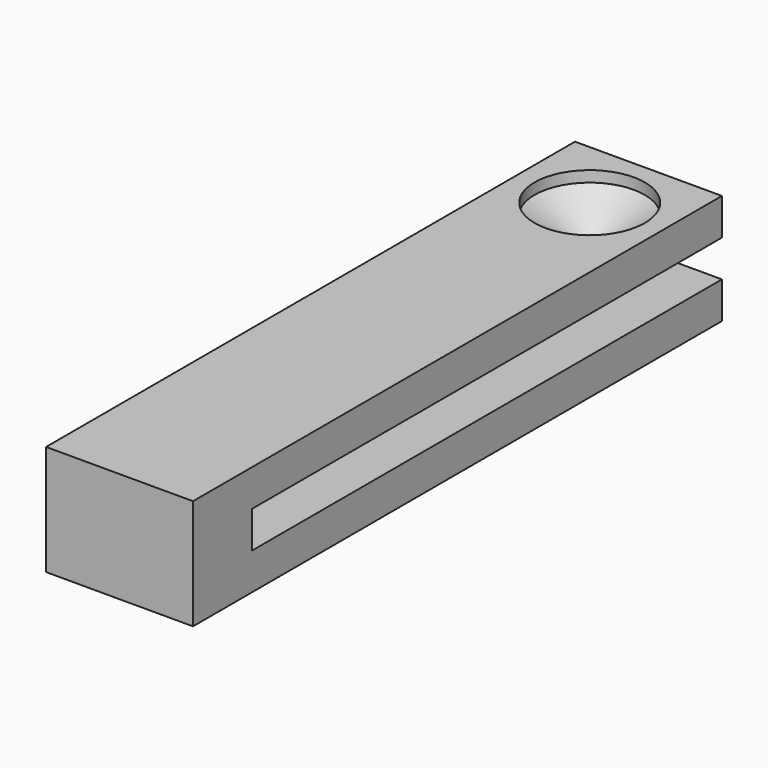
from build123d import *

# Parameters (mm, degrees)
F1_DEPTH = 50.8
F3_D     = 76.2
F3_DEPTH = 7.62
F3_TIP   = 22.892789585


with BuildPart() as f1:
    # F0 (on Right) → F1 (new body, symmetric)
    with BuildSketch(Plane.YZ):
        Polygon((285.3764565342, 50.8), (-171.8235434658, 50.8), (-171.8235434658, -25.4), (285.3764565342, -25.4), (285.3764565342, 0), (-121.0235434658, 0), (-121.0235434658, 25.4), (285.3764565342, 25.4), align=None)
    extrude(amount=F1_DEPTH, both=True)

    # F3
    with Locations(Plane.XY.offset(50.8)):
        with Locations((0, 234.5764565342)):
            Hole(F3_D / 2, depth=F3_DEPTH)
            with Locations((0, 0, -(F3_DEPTH + F3_TIP / 2))):  # 118° drill point
                Cone(0, F3_D / 2, F3_TIP, mode=Mode.SUBTRACT)


solid = f1.part
